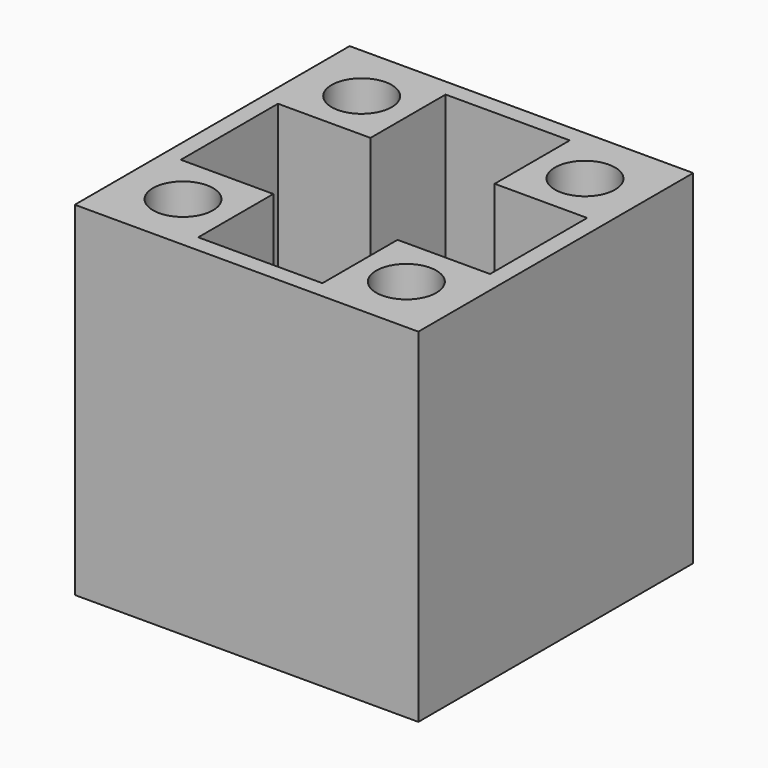
from build123d import *

# Parameters (mm, degrees)
F1_DEPTH = 2.54
F0_R     = 2.2225
F2_DEPTH = 19.05
F0_W     = 25.4
F0_H     = 25.4
F0_W_2   = 6.8400954445
F0_H_2   = 6.9419826217
F3_DEPTH = 25.4


with BuildPart() as f1:
    # F0 (on Top) → F1 (new body)
    with BuildSketch(Plane.XY):
        Polygon((16.1757896501, -1.1124916385), (16.1757896501, 7.8635431181), (9.3356942055, 7.8635431181), (9.3356942055, 14.8055257398), (0.1558850946, 14.8055257398), (0.1558850946, 7.8635431181), (-6.6842103499, 7.8635431181), (-6.6842103499, -1.1124916385), (0.1558850946, -1.1124916385), (0.1558850946, -8.0544742602), (9.3356942055, -8.0544742602), (9.3356942055, -1.1124916385), align=None)
    extrude(amount=F1_DEPTH)



with BuildPart() as f2:
    # F0 (on Top) → F2 (new body)
    with BuildSketch(Plane.XY):
        with Locations((-3.5092103499, 11.6305257398)):
            Circle(F0_R)
    extrude(amount=F2_DEPTH)


with BuildPart() as f2b:
    # F0 (on Top) → F2, piece 2 (new body)
    with BuildSketch(Plane.XY):
        with Locations((13.0007896501, 11.6305257398)):
            Circle(F0_R)
    extrude(amount=F2_DEPTH)


with BuildPart() as f2c:
    # F0 (on Top) → F2, piece 3 (new body)
    with BuildSketch(Plane.XY):
        with Locations((13.0007896501, -4.8794742602)):
            Circle(F0_R)
    extrude(amount=F2_DEPTH)


with BuildPart() as f2d:
    # F0 (on Top) → F2, piece 4 (new body)
    with BuildSketch(Plane.XY):
        with Locations((-3.5092103499, -4.8794742602)):
            Circle(F0_R)
    extrude(amount=F2_DEPTH)


with BuildPart() as f1_1:
    add(f1.part)

    add(f2.part)  # F3 merges F2

    add(f2b.part)  # F3 merges F2b

    add(f2c.part)  # F3 merges F2c

    add(f2d.part)  # F3 merges F2d
    # F0 (on Top) → F3 (join)
    with BuildSketch(Plane.XY):
        with Locations((4.7457896501, 3.3755257398)):
            Rectangle(F0_W, F0_H)
        Polygon((13.6357896501, 14.8055257398), (16.1757896501, 14.8055257398), (16.1757896501, 7.8635431181), (16.1757896501, -1.1124916385), (16.1757896501, -8.0544742602), (9.3356942055, -8.0544742602), (0.1558850946, -8.0544742602), (-4.1442103499, -8.0544742602), (-6.6842103499, -8.0544742602), (-6.6842103499, -1.1124916385), (-6.6842103499, 7.8635431181), (-6.6842103499, 14.8055257398), (-4.1442103499, 14.8055257398), (0.1558850946, 14.8055257398), (9.3356942055, 14.8055257398), align=None, mode=Mode.SUBTRACT)
        Polygon((0.1558850946, 7.8635431181), (0.1558850946, 14.8055257398), (-4.1442103499, 14.8055257398), (-6.6842103499, 14.8055257398), (-6.6842103499, 7.8635431181), align=None)
        with Locations((-3.5092103499, 11.6305257398)):
            Circle(F0_R, mode=Mode.SUBTRACT)
        Polygon((-4.1442103499, -8.0544742602), (0.1558850946, -8.0544742602), (0.1558850946, -1.1124916385), (-6.6842103499, -1.1124916385), (-6.6842103499, -8.0544742602), align=None)
        with Locations((-3.5092103499, -4.8794742602)):
            Circle(F0_R, mode=Mode.SUBTRACT)
        with Locations((12.7557419278, -4.5834829494)):
            Rectangle(F0_W_2, F0_H_2)
        with Locations((13.0007896501, -4.8794742602)):
            Circle(F0_R, mode=Mode.SUBTRACT)
        Polygon((16.1757896501, 7.8635431181), (16.1757896501, 14.8055257398), (13.6357896501, 14.8055257398), (9.3356942055, 14.8055257398), (9.3356942055, 7.8635431181), align=None)
        with Locations((13.0007896501, 11.6305257398)):
            Circle(F0_R, mode=Mode.SUBTRACT)
    extrude(amount=F3_DEPTH)


solid = f1_1.part
